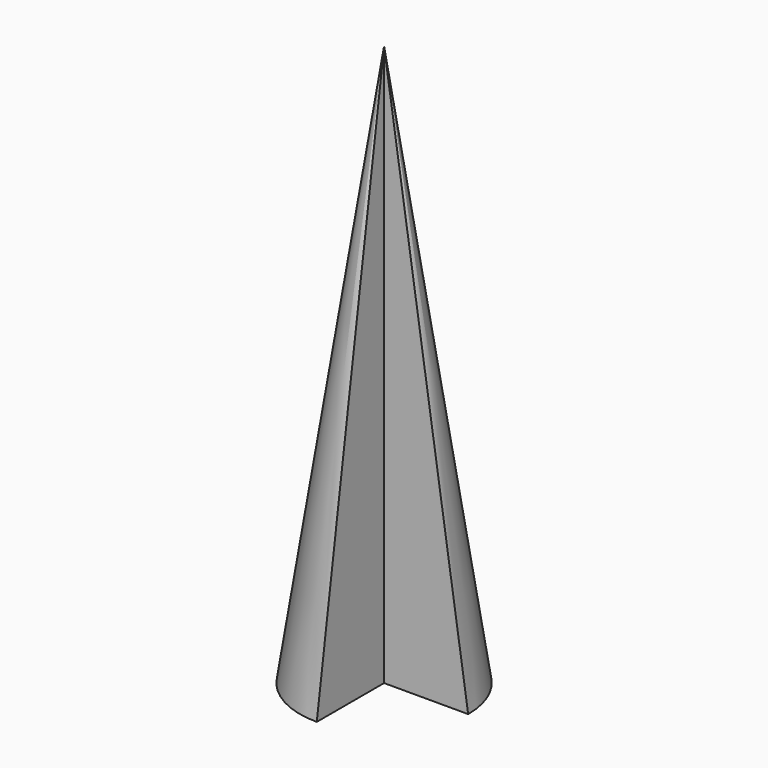
from build123d import *

# Parameters (mm, degrees)
CONE_ANGLE = 270


with BuildPart() as part:
    # Cone → Cone (revolve)
    with BuildSketch(Plane.XZ):
        Polygon((0, 0), (3, 0), (0, 20), align=None)
    revolve(axis=Axis((0, 0, 0), (0, 0, 1)), revolution_arc=CONE_ANGLE)


solid = part.part
